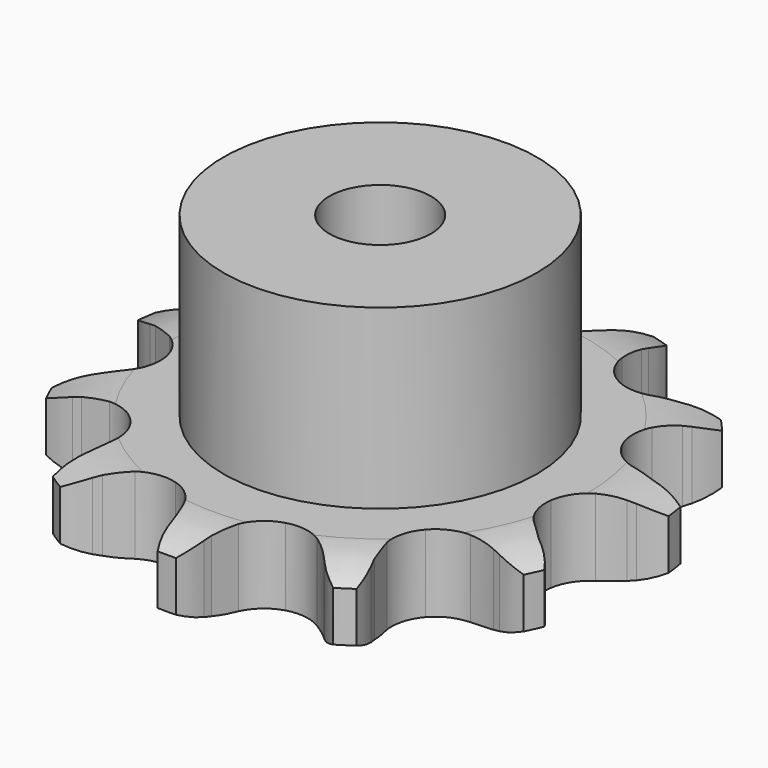
from build123d import *

# Parameters (mm, degrees)
PAD_DEPTH         = 9.1
SKETCH001_R       = 18.5
PAD001_DEPTH      = 30
SKETCH002_R       = 6
POCKET_DEPTH      = 0.001
POCKET_DEPTH_BACK = -30.001


with BuildPart() as part:
    # Sprocket → Pad (new body)
    with BuildSketch(Plane.XY):
        with BuildLine():
            ThreePointArc((-9.271424, 31.575569), (-7.404692, 30.088528), (-6.018207, 28.145944))
            Line((-6.018207, 28.145944), (-5.582333, 27.310258))
            ThreePointArc((-5.582333, 27.310258), (-4.817807, 26.026363), (-3.913797, 24.836551))
            ThreePointArc((-3.913797, 24.836551), (-2.155229, 23.503703), (0, 23.030383))
            ThreePointArc((0, 23.030383), (2.155229, 23.503703), (3.913797, 24.836551))
            ThreePointArc((3.913797, 24.836551), (4.817807, 26.026363), (5.582333, 27.310258))
            Line((5.582333, 27.310258), (6.018207, 28.145944))
            ThreePointArc((6.018207, 28.145944), (7.404692, 30.088528), (9.271424, 31.575569))
            ThreePointArc((9.271424, 31.575569), (10.037863, 29.31536), (10.154008, 26.931564))
            Line((10.154008, 26.931564), (10.068882, 25.992888))
            ThreePointArc((10.068882, 25.992888), (10.017917, 24.499473), (10.135157, 23.009794))
            ThreePointArc((10.135157, 23.009794), (10.893967, 20.937778), (12.451165, 19.374391))
            ThreePointArc((12.451165, 19.374391), (14.520155, 18.607368), (16.720148, 18.777877))
            Line((16.720148, 18.777877), (19.461198, 19.956813))
            ThreePointArc((19.461198, 19.956813), (19.866291, 20.197768), (20.279684, 20.424186))
            ThreePointArc((20.279684, 20.424186), (22.49631, 21.308802), (24.870659, 21.550549))
            ThreePointArc((24.870659, 21.550549), (24.293468, 19.234772), (23.102398, 17.166602))
            Line((23.102398, 17.166602), (22.523299, 16.42296))
            ThreePointArc((22.523299, 16.42296), (21.673023, 15.194173), (20.966271, 13.877591))
            ThreePointArc((20.966271, 13.877591), (20.484406, 11.724256), (20.949173, 9.567167))
            ThreePointArc((20.949173, 9.567167), (22.275035, 7.803326), (24.217971, 6.757361))
            Line((24.217971, 6.757361), (27.161269, 6.267222))
            ThreePointArc((27.161269, 6.267222), (27.632325, 6.250916), (28.102505, 6.217894))
            ThreePointArc((28.102505, 6.217894), (30.445509, 5.763681), (32.573636, 4.683382))
            ThreePointArc((32.573636, 4.683382), (30.836068, 3.047279), (28.715939, 1.951365))
            Line((28.715939, 1.951365), (27.826727, 1.638858))
            ThreePointArc((27.826727, 1.638858), (26.447097, 1.064831), (25.140742, 0.33935))
            ThreePointArc((25.140742, 0.33935), (23.57119, -1.211634), (22.795967, -3.277565))
            ThreePointArc((22.795967, -3.277565), (22.957748, -5.478218), (24.026759, -7.40857))
            Line((24.026759, -7.40857), (26.23783, -9.412168))
            ThreePointArc((26.23783, -9.412168), (26.625292, -9.680558), (27.002979, -9.962536))
            ThreePointArc((27.002979, -9.962536), (28.728473, -11.611367), (29.934714, -13.670726))
            ThreePointArc((29.934714, -13.670726), (27.588435, -14.107703), (25.212373, -13.883416))
            Line((25.212373, -13.883416), (24.295367, -13.665569))
            ThreePointArc((24.295367, -13.665569), (22.824405, -13.402588), (21.333204, -13.306631))
            ThreePointArc((21.333204, -13.306631), (19.174288, -13.762839), (17.405202, -15.081693))
            ThreePointArc((17.405202, -15.081693), (16.351539, -17.020465), (16.207221, -19.222332))
            Line((16.207221, -19.222332), (16.984065, -22.103261))
            ThreePointArc((16.984065, -22.103261), (17.164916, -22.538523), (17.330198, -22.979931))
            ThreePointArc((17.330198, -22.979931), (17.89035, -25.299889), (17.791731, -27.684475))
            ThreePointArc((17.791731, -27.684475), (15.581668, -26.783589), (13.704056, -25.310311))
            Line((13.704056, -25.310311), (13.050398, -24.631275))
            ThreePointArc((13.050398, -24.631275), (11.955125, -23.614779), (10.752526, -22.727852))
            ThreePointArc((10.752526, -22.727852), (8.689685, -21.944439), (6.488409, -22.09749))
            ThreePointArc((6.488409, -22.09749), (4.553831, -23.158836), (3.242004, -24.93314))
            Line((3.242004, -24.93314), (2.337979, -27.776725))
            ThreePointArc((2.337979, -27.776725), (2.254801, -28.240666), (2.155201, -28.701361))
            ThreePointArc((2.155201, -28.701361), (1.372168, -30.955874), (0, -32.908598))
            ThreePointArc((0, -32.908598), (-1.372168, -30.955874), (-2.155201, -28.701361))
            Line((-2.155201, -28.701361), (-2.337979, -27.776725))
            ThreePointArc((-2.337979, -27.776725), (-2.709822, -26.329445), (-3.242004, -24.93314))
            ThreePointArc((-3.242004, -24.93314), (-4.553831, -23.158836), (-6.488409, -22.09749))
            ThreePointArc((-6.488409, -22.09749), (-8.689685, -21.944439), (-10.752526, -22.727852))
            Line((-10.752526, -22.727852), (-13.050398, -24.631275))
            ThreePointArc((-13.050398, -24.631275), (-13.371197, -24.976598), (-13.704056, -25.310311))
            ThreePointArc((-13.704056, -25.310311), (-15.581668, -26.783589), (-17.791731, -27.684475))
            ThreePointArc((-17.791731, -27.684475), (-17.89035, -25.299889), (-17.330198, -22.979931))
            Line((-17.330198, -22.979931), (-16.984065, -22.103261))
            ThreePointArc((-16.984065, -22.103261), (-16.51442, -20.684698), (-16.207221, -19.222332))
            ThreePointArc((-16.207221, -19.222332), (-16.351539, -17.020465), (-17.405202, -15.081693))
            ThreePointArc((-17.405202, -15.081693), (-19.174288, -13.762839), (-21.333204, -13.306631))
            Line((-21.333204, -13.306631), (-24.295367, -13.665569))
            ThreePointArc((-24.295367, -13.665569), (-24.751935, -13.782636), (-25.212373, -13.883416))
            ThreePointArc((-25.212373, -13.883416), (-27.588435, -14.107703), (-29.934714, -13.670726))
            ThreePointArc((-29.934714, -13.670726), (-28.728473, -11.611367), (-27.002979, -9.962536))
            Line((-27.002979, -9.962536), (-26.23783, -9.412168))
            ThreePointArc((-26.23783, -9.412168), (-25.075807, -8.472706), (-24.026759, -7.40857))
            ThreePointArc((-24.026759, -7.40857), (-22.957748, -5.478218), (-22.795967, -3.277565))
            ThreePointArc((-22.795967, -3.277565), (-23.57119, -1.211634), (-25.140742, 0.33935))
            Line((-25.140742, 0.33935), (-27.826727, 1.638858))
            ThreePointArc((-27.826727, 1.638858), (-28.274108, 1.787215), (-28.715939, 1.951365))
            ThreePointArc((-28.715939, 1.951365), (-30.836068, 3.047279), (-32.573636, 4.683382))
            ThreePointArc((-32.573636, 4.683382), (-30.445509, 5.763681), (-28.102505, 6.217894))
            Line((-28.102505, 6.217894), (-27.161269, 6.267222))
            ThreePointArc((-27.161269, 6.267222), (-25.675802, 6.429311), (-24.217971, 6.757361))
            ThreePointArc((-24.217971, 6.757361), (-22.275035, 7.803326), (-20.949173, 9.567167))
            ThreePointArc((-20.949173, 9.567167), (-20.484406, 11.724256), (-20.966271, 13.877591))
            Line((-20.966271, 13.877591), (-22.523299, 16.42296))
            ThreePointArc((-22.523299, 16.42296), (-22.819452, 16.789638), (-23.102398, 17.166602))
            ThreePointArc((-23.102398, 17.166602), (-24.293468, 19.234772), (-24.870659, 21.550549))
            ThreePointArc((-24.870659, 21.550549), (-22.49631, 21.308802), (-20.279684, 20.424186))
            Line((-20.279684, 20.424186), (-19.461198, 19.956813))
            ThreePointArc((-19.461198, 19.956813), (-18.123911, 19.290067), (-16.720148, 18.777877))
            ThreePointArc((-16.720148, 18.777877), (-14.520155, 18.607368), (-12.451165, 19.374391))
            ThreePointArc((-12.451165, 19.374391), (-10.893967, 20.937778), (-10.135157, 23.009794))
            Line((-10.135157, 23.009794), (-10.068882, 25.992888))
            ThreePointArc((-10.068882, 25.992888), (-10.119781, 26.46147), (-10.154008, 26.931564))
            ThreePointArc((-10.154008, 26.931564), (-10.037863, 29.31536), (-9.271424, 31.575569))
        make_face()
    extrude(amount=PAD_DEPTH)

    # Sketch → Groove (revolve, cut)
    with BuildSketch(Plane.XZ):
        with BuildLine():
            Line((24.525762, 0), (31.5, 0))
            Line((38.474238, 0), (31.5, 0))
            Line((38.474238, 9.1), (38.474238, 0))
            Line((31.5, 9.1), (38.474238, 9.1))
            Line((24.525762, 9.1), (31.5, 9.1))
            ThreePointArc((31.5, 7.5), (28.10347, 8.694871), (24.525762, 9.1))
            Line((31.5, 1.6), (31.5, 7.5))
            ThreePointArc((24.525762, 0), (28.10347, 0.405129), (31.5, 1.6))
        make_face()
    revolve(axis=Axis((0, 0, 0), (0, 0, 1)), mode=Mode.SUBTRACT)

    # Sketch001 → Pad001 (join)
    with BuildSketch(Plane.XY):
        Circle(SKETCH001_R)
    extrude(amount=PAD001_DEPTH)

    # Sketch002 → Pocket (cut, two sides)
    with BuildSketch(Plane.XY) as pocket_sk:
        Circle(SKETCH002_R)
    extrude(amount=-POCKET_DEPTH, mode=Mode.SUBTRACT)
    extrude(pocket_sk.sketch, amount=-POCKET_DEPTH_BACK, mode=Mode.SUBTRACT)


solid = part.part
